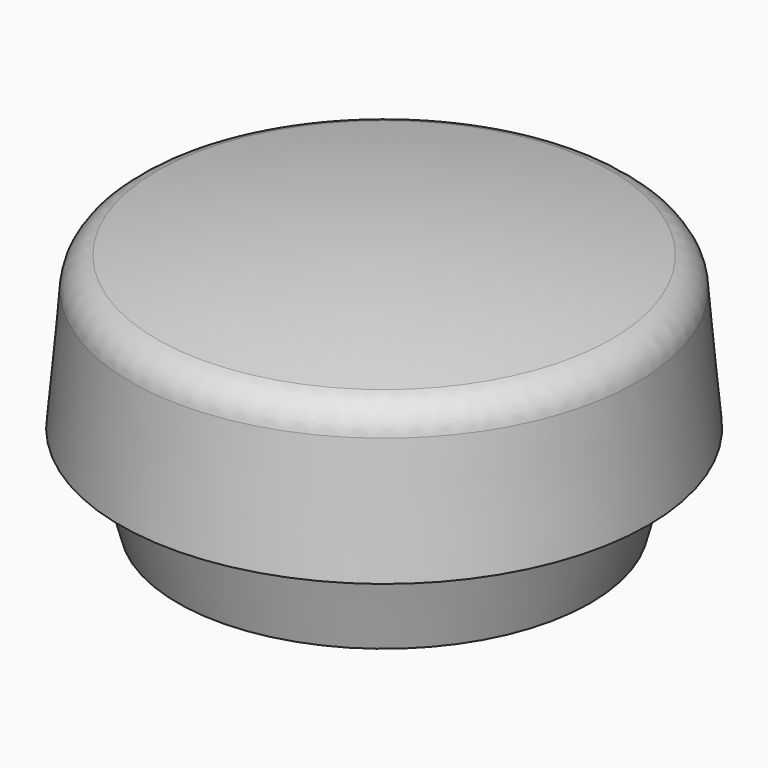
from build123d import *

# Parameters (mm, degrees)
F3_D     = 7.9375
F3_DEPTH = 17.4625
F3_TIP   = 2.3846655818
F4_R     = 3.175


with BuildPart() as f1:
    # F0 (on Front) → F1 (revolve)
    with BuildSketch(Plane.XZ):
        with BuildLine():
            add(Edge.make_bspline(
                [(19.852049869, 0), (13.2346999127, 0), (6.6173499563, 0), (0, 0)],
                knots=[0, 0, 0, 0, 0.5, 0.5, 0.5, 0.5], degree=3))
            Line((19.852049869, 0), (22.098, 8.382))
            Line((22.098, 8.382), (25.4, 8.382))
            Line((25.4, 8.382), (24.1662252473, 22.4841099534))
            ThreePointArc((24.1662252473, 22.4841099534), (12.1707524158, 24.6683933927), (0, 25.4))
            Line((0, 25.4), (0, 0))
        make_face()
    revolve(axis=Axis((0, 0, 12.7), (0, 0, -1)))

    # F3
    with Locations(Plane(origin=(0, 0, 0), x_dir=(1, 0, 0), z_dir=(0, 0, -1))):
        with Locations((0, 0)):
            Hole(F3_D / 2, depth=F3_DEPTH)
            with Locations((0, 0, -(F3_DEPTH + F3_TIP / 2))):  # 118° drill point
                Cone(0, F3_D / 2, F3_TIP, mode=Mode.SUBTRACT)

    # F4
    f4_edges = [f1.edges().sort_by_distance(p)[0] for p in [
        (-24.166225, 0, 22.48411),
    ]]
    fillet(f4_edges, radius=F4_R)


solid = f1.part
